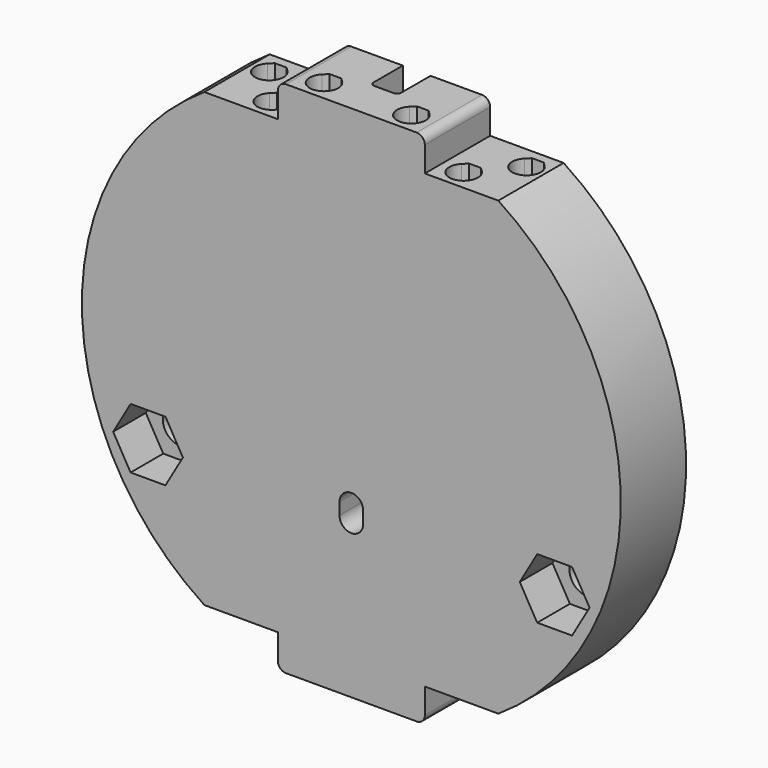
from build123d import *

# Parameters (mm, degrees)
PAD012_DEPTH    = 10
SKETCH027_W     = 3.4
SKETCH027_H     = 5
POCKET_DEPTH    = 30
POCKET012_DEPTH = 247.759716
SKETCH029_R     = 11
POCKET013_DEPTH = 3.5
POCKET014_DEPTH = 5
SKETCH031_R     = 2.2
POCKET015_DEPTH = 5.001
POCKET016_DEPTH = 243.669334
FILLET_R        = 0.5
FILLET001_R     = 1
FILLET002_R     = 1


with BuildPart() as part:
    # Sketch026 (on ShapeBinder) → Pad012 (new body)
    with BuildSketch(Plane.XZ.offset(47.5)):
        with BuildLine():
            ThreePointArc((18, -27.658633), (33, 0), (18, 27.658633))
            Line((18, 27.658633), (9, 27.658633))
            Line((9, 31.749016), (9, 27.658633))
            Line((-9, 31.749016), (9, 31.749016))
            Line((-9, 31.749016), (-9, 27.658633))
            Line((-18, 27.658633), (-9, 27.658633))
            ThreePointArc((-18, 27.658633), (-33, 0), (-18, -27.658633))
            Line((-18, -27.658633), (-9, -27.658633))
            Line((-9, -31.749016), (-9, -27.658633))
            Line((-9, -31.749016), (9, -31.749016))
            Line((9, -31.749016), (9, -27.658633))
            Line((18, -27.658633), (9, -27.658633))
        make_face()
        with BuildLine():
            ThreePointArc((-1.45, -12.6), (0, -14.05), (1.45, -12.6))
            Line((1.45, -12.6), (1.45, -11.15))
            ThreePointArc((1.45, -11.15), (0, -9.7), (-1.45, -11.15))
            Line((-1.45, -12.6), (-1.45, -11.15))
        make_face(mode=Mode.SUBTRACT)
    extrude(amount=PAD012_DEPTH)

    # Sketch027 (on Face4 of Pad012) → Pocket (cut)
    with BuildSketch(Plane(origin=(0, -4.5, 31.749016), x_dir=(1, 0, 0), z_dir=(0, 0, 1))):
        with Locations((0, -45.5)):
            Rectangle(SKETCH027_W, SKETCH027_H)
    extrude(amount=-POCKET_DEPTH, mode=Mode.SUBTRACT)

    # Sketch028 (on Face14 of Pocket) → Pocket012 (cut, through all)
    with BuildSketch(Plane(origin=(0, -4.5, 31.749016), x_dir=(1, 0, 0), z_dir=(0, 0, 1))):
        with BuildLine():
            Line((-6.074874, -48.75), (-4.625126, -48.75))
            Line((-4.112563, -49.262563), (-4.625126, -48.75))
            ThreePointArc((-6.587437, -49.262563), (-5.35, -52.25), (-4.112563, -49.262563))
            Line((-6.074874, -48.75), (-6.587437, -49.262563))
        make_face()
        with BuildLine():
            Line((4.625126, -48.75), (6.074874, -48.75))
            Line((6.587437, -49.262563), (6.074874, -48.75))
            ThreePointArc((4.112563, -49.262563), (5.35, -52.25), (6.587437, -49.262563))
            Line((4.625126, -48.75), (4.112563, -49.262563))
        make_face()
    extrude(amount=-POCKET012_DEPTH, mode=Mode.SUBTRACT)

    # Sketch029 (on Face4 of Pocket012) → Pocket013 (cut)
    with BuildSketch(Plane(origin=(0, -47.5, 0), x_dir=(-1, 0, 0), z_dir=(0, 1, 0))):
        with Locations((0, -12.6)):
            Circle(SKETCH029_R)
    extrude(amount=-POCKET013_DEPTH, mode=Mode.SUBTRACT)

    # Sketch030 (on Face5 of Pocket013) → Pocket014 (cut)
    with BuildSketch(Plane.XZ.offset(57.5)):
        Polygon((27.036196, -16.3), (29.172392, -12.6), (27.036196, -8.9), (22.763804, -8.9), (20.627608, -12.6), (22.763804, -16.3), align=None)
        Polygon((-22.763804, -16.3), (-20.627608, -12.6), (-22.763804, -8.9), (-27.036196, -8.9), (-29.172392, -12.6), (-27.036196, -16.3), align=None)
    extrude(amount=-POCKET014_DEPTH, mode=Mode.SUBTRACT)

    # Sketch031 (on Face46 of Pocket014) → Pocket015 (cut, through all)
    with BuildSketch(Plane.XZ.offset(52.5)):
        with Locations((24.9, -12.6)):
            Circle(SKETCH031_R)
        with Locations((-24.9, -12.6)):
            Circle(SKETCH031_R)
    extrude(amount=-POCKET015_DEPTH, mode=Mode.SUBTRACT)

    # Sketch032 (on Face3 of Pocket015) → Pocket016 (cut, through all)
    with BuildSketch(Plane(origin=(0, -4.5, 27.658633), x_dir=(1, 0, 0), z_dir=(0, 0, 1))):
        with BuildLine():
            Line((11.025126, -48.75), (12.474874, -48.75))
            Line((12.474874, -48.75), (12.987437, -49.262563))
            ThreePointArc((10.512563, -49.262563), (11.75, -52.25), (12.987437, -49.262563))
            Line((11.025126, -48.75), (10.512563, -49.262563))
        make_face()
        with BuildLine():
            Line((15.025126, -44.125), (16.474874, -44.125))
            Line((16.474874, -44.125), (16.987437, -44.637563))
            ThreePointArc((14.512563, -44.637563), (15.75, -47.625), (16.987437, -44.637563))
            Line((15.025126, -44.125), (14.512563, -44.637563))
        make_face()
    pocket016 = extrude(amount=-POCKET016_DEPTH, mode=Mode.SUBTRACT)

    # Mirrored: Pocket016 across Sketch032 V_Axis
    add(pocket016.mirror(Plane(origin=(0, -4.5, 27.658633), x_dir=(0, 0, 1), z_dir=(1, 0, 0))), mode=Mode.SUBTRACT)

    # Fillet
    fillet_edges = [part.edges().sort_by_distance(p)[0] for p in [
        (-1.7, -52.5, 16.749016),
        (1.7, -52.5, 16.749016),
    ]]
    fillet(fillet_edges, radius=FILLET_R)

    # Fillet001
    fillet001_edges = [part.edges().sort_by_distance(p)[0] for p in [
        (-9, -52.5, 31.749016),
        (9, -52.5, 31.749016),
    ]]
    fillet(fillet001_edges, radius=FILLET001_R)

    # Fillet002
    fillet002_edges = [part.edges().sort_by_distance(p)[0] for p in [
        (9, -52.5, -31.749016),
        (-9, -52.5, -31.749016),
    ]]
    fillet(fillet002_edges, radius=FILLET002_R)


solid = part.part
